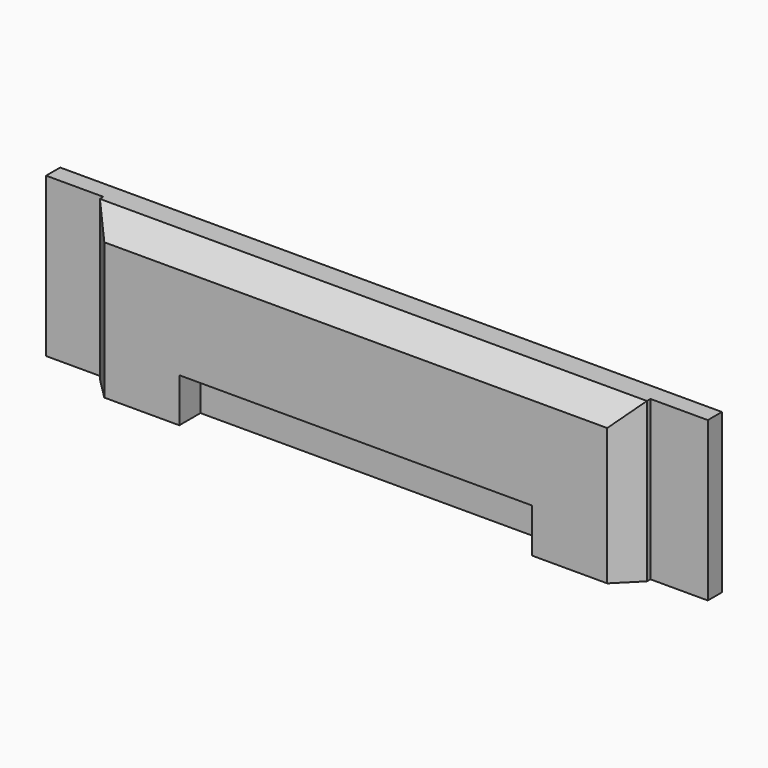
from build123d import *

# Parameters (mm, degrees)
F0_W     = 750
F0_H     = 180
F1_DEPTH = 20
F2_W     = 620
F2_H     = 180
F3_DEPTH = 30
F4_SIZE  = 25
F5_W     = 400
F5_H     = 50
F6_DEPTH = 30
F7_W     = 700
F7_H     = 150
F8_DEPTH = 10


with BuildPart() as f1:
    # F0 (on Front) → F1 (new body)
    with BuildSketch(Plane.XZ):
        Rectangle(F0_W, F0_H)
    extrude(amount=F1_DEPTH)

    # F2 (on face) → F3 (join)
    with BuildSketch(Plane.XZ.offset(20)):
        Rectangle(F2_W, F2_H)
    extrude(amount=F3_DEPTH)

    # F4
    f4_edges = [f1.edges().sort_by_distance(p)[0] for p in [
        (0, -50, 90),
        (-310, -50, 0),
        (310, -50, 0),
    ]]
    chamfer(f4_edges, length=F4_SIZE)

    # F5 (on face) → F6 (cut)
    with BuildSketch(Plane.XZ.offset(50)):
        with Locations((0, -65)):
            Rectangle(F5_W, F5_H)
    extrude(amount=-F6_DEPTH, mode=Mode.SUBTRACT)

    # F7 (on face) → F8 (cut)
    with BuildSketch(Plane(origin=(0, 0, 0), x_dir=(-1, 0, 0), z_dir=(0, 1, 0))):
        Rectangle(F7_W, F7_H)
    extrude(amount=-F8_DEPTH, mode=Mode.SUBTRACT)


solid = f1.part
